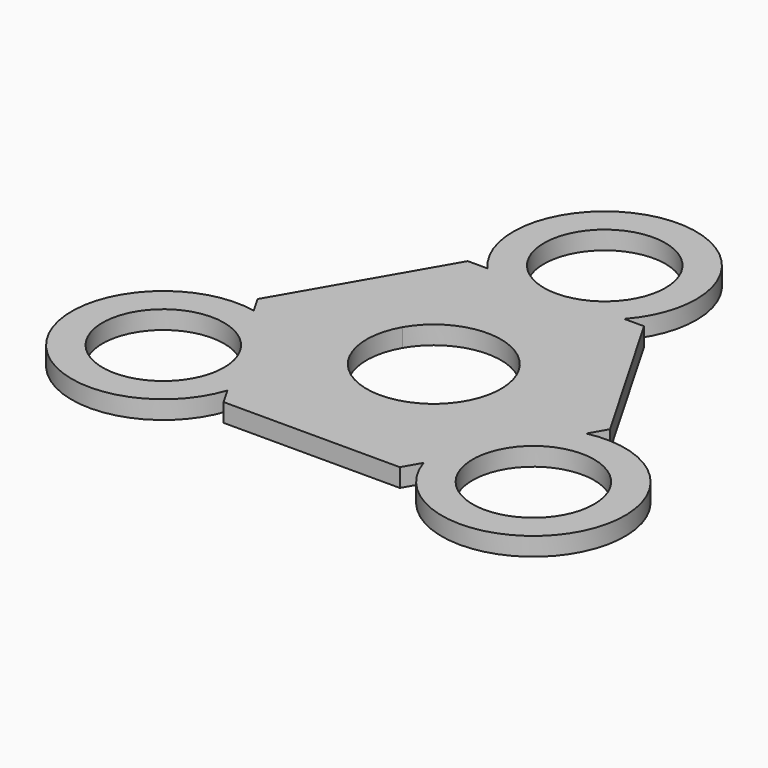
from build123d import *

# Parameters (mm, degrees)
F0_R     = 9.95
F1_DEPTH = 3


with BuildPart() as f1:
    # F0 (on Top) → F1 (new body)
    with BuildSketch(Plane.XY):
        with BuildLine():
            Line((-11.18034, 25), (-14.433757, 25))
            Line((-14.433757, 25), (-21.650635, 12.5))
            Line((-21.650635, 12.5), (-28.867513, 0))
            Line((-28.867513, 0), (-27.240805, -2.817542))
            ThreePointArc((-27.240805, -2.817542), (-43.30127, -25), (-16.060465, -22.182458))
            Line((-16.060465, -22.182458), (-14.433757, -25))
            Line((-14.433757, -25), (0, -25))
            Line((0, -25), (14.433757, -25))
            Line((14.433757, -25), (16.060465, -22.182458))
            ThreePointArc((16.060465, -22.182458), (43.30127, -25), (27.240805, -2.817542))
            Line((27.240805, -2.817542), (28.867513, 0))
            Line((28.867513, 0), (21.650635, 12.5))
            Line((21.650635, 12.5), (14.433757, 25))
            Line((14.433757, 25), (11.18034, 25))
            ThreePointArc((11.18034, 25), (0, 50), (-11.18034, 25))
        make_face()
        with Locations((-30.310889, -17.5)):
            Circle(F0_R, mode=Mode.SUBTRACT)
        with Locations((30.310889, -17.5)):
            Circle(F0_R, mode=Mode.SUBTRACT)
        with BuildLine():
            ThreePointArc((-9.526279, 5.5), (0, 11), (9.526279, 5.5))
            ThreePointArc((9.526279, 5.5), (9.526279, -5.5), (0, -11))
            ThreePointArc((0, -11), (-9.526279, -5.5), (-9.526279, 5.5))
        make_face(mode=Mode.SUBTRACT)
        with BuildLine():
            ThreePointArc((0, 25.05), (-7.035712, 42.035712), (9.95, 35))
            ThreePointArc((9.95, 35), (7.035712, 27.964288), (0, 25.05))
        make_face(mode=Mode.SUBTRACT)
    extrude(amount=F1_DEPTH)


solid = f1.part
